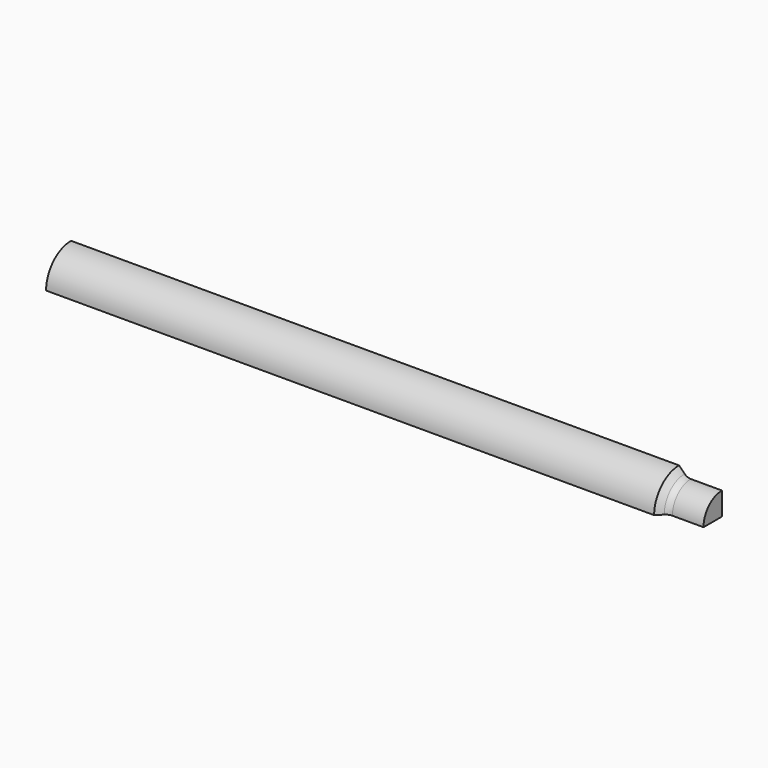
from build123d import *

# Parameters (mm, degrees)
F1_ANGLE = 90
F2_R     = 10


with BuildPart() as f1:
    # F0 (on Front) → F1 (revolve)
    with BuildSketch(Plane.XZ):
        Polygon((700.6, 35.9), (0, 35.9), (0, 24.079584), (0, 0), (750, 0), (750, 26.5), (710, 26.5), align=None)
    revolve(axis=Axis((375, 0, 0), (1, 0, 0)), revolution_arc=F1_ANGLE)

    # F2
    f2_edges = [f1.edges().sort_by_distance(p)[0] for p in [
        (710, -18.73833, 18.73833),
    ]]
    fillet(f2_edges, radius=F2_R)


solid = f1.part
